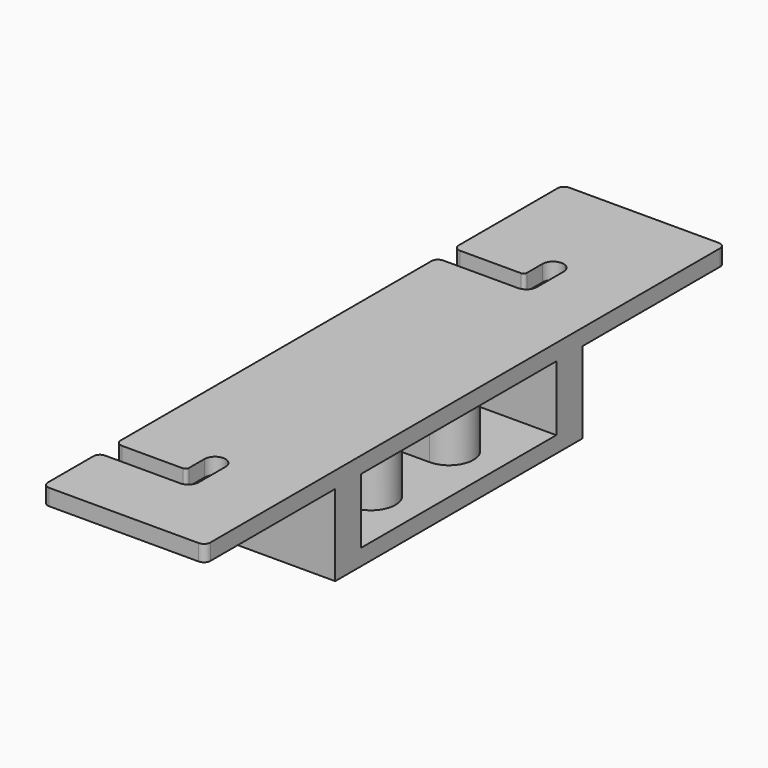
from build123d import *

# Parameters (mm, degrees)
F1_DEPTH = 5
F2_W     = 50
F2_H     = 10
F3_DEPTH = 20
F4_W     = 50
F4_H     = 95
F5_DEPTH = 5


with BuildPart() as f1:
    # F0 (on Top) → F1 (new body)
    with BuildSketch(Plane.XY):
        with BuildLine():
            Line((-23, -100), (23, -100))
            ThreePointArc((23, -100), (24.414214, -99.414214), (25, -98))
            Line((25, -98), (25, 98))
            ThreePointArc((25, 98), (24.414214, 99.414214), (23, 100))
            Line((23, 100), (-23, 100))
            ThreePointArc((-23, 100), (-24.414214, 99.414214), (-25, 98))
            Line((-25, 98), (-25, 60))
            ThreePointArc((-25, 60), (-24.414214, 58.585786), (-23, 58))
            Line((-23, 58), (-4.25, 58))
            ThreePointArc((-4.25, 58), (-3.542893, 58.292893), (-3.25, 59))
            Line((-3.25, 59), (-3.25, 65))
            ThreePointArc((-3.25, 65), (0, 68.25), (3.25, 65))
            Line((3.25, 65), (3.25, 54.75))
            ThreePointArc((3.25, 54.75), (2.298097, 52.451903), (0, 51.5))
            Line((0, 51.5), (-23, 51.5))
            ThreePointArc((-23, 51.5), (-24.414214, 50.914214), (-25, 49.5))
            Line((-25, 49.5), (-25, -70))
            ThreePointArc((-25, -70), (-24.414214, -71.414214), (-23, -72))
            Line((-23, -72), (-4.25, -72))
            ThreePointArc((-4.25, -72), (-3.542893, -71.707107), (-3.25, -71))
            Line((-3.25, -71), (-3.25, -65))
            ThreePointArc((-3.25, -65), (0, -61.75), (3.25, -65))
            Line((3.25, -65), (3.25, -75.25))
            ThreePointArc((3.25, -75.25), (2.298097, -77.548097), (0, -78.5))
            Line((0, -78.5), (-23, -78.5))
            ThreePointArc((-23, -78.5), (-24.414214, -79.085786), (-25, -80.5))
            Line((-25, -80.5), (-25, -98))
            ThreePointArc((-25, -98), (-24.414214, -99.414214), (-23, -100))
        make_face()
    extrude(amount=F1_DEPTH)

    # F2 (on face) → F3 (join)
    with BuildSketch(Plane(origin=(0, 0, 0), x_dir=(1, 0, 0), z_dir=(0, 0, -1))):
        with BuildLine():
            Line((10, 25), (-10, 25))
            ThreePointArc((-10, 25), (-17.5, 17.5), (-10, 10))
            Line((-10, 10), (10, 10))
            ThreePointArc((10, 10), (17.5, 17.5), (10, 25))
        make_face()
        with BuildLine():
            Line((10, -5), (-10, -5))
            ThreePointArc((-10, -5), (-17.5, -12.5), (-10, -20))
            Line((-10, -20), (10, -20))
            ThreePointArc((10, -20), (17.5, -12.5), (10, -5))
        make_face()
        with Locations((0, 45)):
            Rectangle(F2_W, F2_H)
        with Locations((0, -40)):
            Rectangle(F2_W, F2_H)
    extrude(amount=F3_DEPTH)

    # F4 (on face) → F5 (join)
    with BuildSketch(Plane(origin=(0, 0, -20), x_dir=(1, 0, 0), z_dir=(0, 0, -1))):
        with Locations((0, 2.5)):
            Rectangle(F4_W, F4_H)
    extrude(amount=F5_DEPTH)


solid = f1.part
